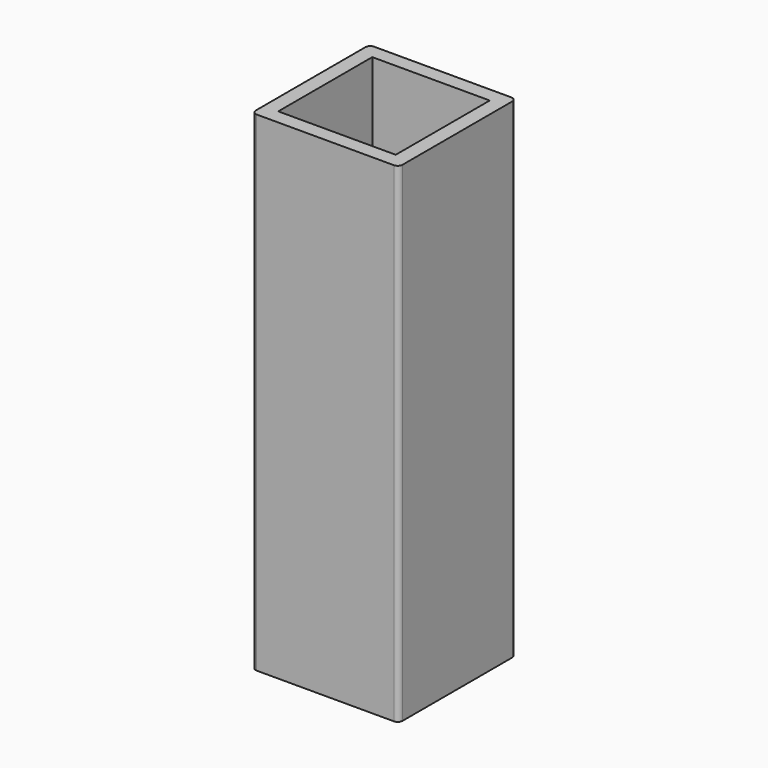
from build123d import *

# Parameters (mm, degrees)
SKETCH_W   = 30
SKETCH_H   = 30
SKETCH_W_2 = 24
SKETCH_H_2 = 24
PAD_DEPTH  = 100
FILLET_R   = 1


with BuildPart() as part:
    # Sketch → Pad (new body)
    with BuildSketch(Plane.XY):
        Rectangle(SKETCH_W, SKETCH_H)
        Rectangle(SKETCH_W_2, SKETCH_H_2, mode=Mode.SUBTRACT)
    extrude(amount=PAD_DEPTH)

    # Fillet
    fillet_edges = [part.edges().sort_by_distance(p)[0] for p in [
        (15, -15, 50),
        (15, 15, 50),
        (-15, -15, 50),
        (-15, 15, 50),
    ]]
    fillet(fillet_edges, radius=FILLET_R)


solid = part.part
